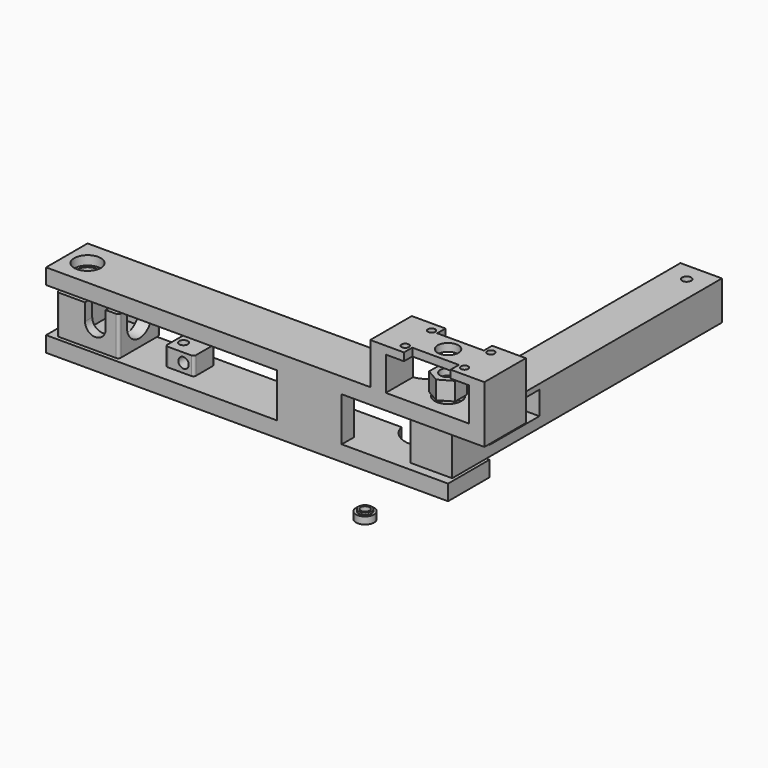
from build123d import *

# Parameters (mm, degrees)
CYLINDER003_R               = 1.7
CYLINDER003_DEPTH           = 23
BOX004_W                    = 8
BOX004_H                    = 10
BOX004_DEPTH                = 10
CYLINDER005_R               = 4
CYLINDER005_DEPTH           = 17
CYLINDER005_ROLL_ANGLE      = 90
BOX003_W                    = 10
BOX003_H                    = 12
BOX003_DEPTH                = 10
CYLINDER002_R               = 6
CYLINDER002_DEPTH           = 10
CYLINDER002_PITCH_ANGLE     = 90
BOX002_W                    = 11
BOX002_H                    = 13
BOX002_DEPTH                = 17
BOX001_W                    = 24
BOX001_H                    = 20
BOX001_DEPTH                = 15
FILLET004_R                 = 1
FILLET005_R                 = 1
FILLET006_R                 = 1
FILLET007_R                 = 1
CYLINDER021_R               = 1.75
CYLINDER021_DEPTH           = 20
CYLINDER023_R               = 2.5
CYLINDER023_DEPTH           = 3.5
CYLINDER022_R               = 3.5
CYLINDER022_DEPTH           = 2.75
BOX009_W                    = 10
BOX009_H                    = 10
BOX009_DEPTH                = 10
BOX009_PLACEMENT_ANGLE      = 60
BOX010_W                    = 10
BOX010_H                    = 10
BOX010_DEPTH                = 10
BOX010_PLACEMENT_ANGLE      = 120
BOX011_W                    = 10
BOX011_H                    = 10
BOX011_DEPTH                = 10
BOX012_W                    = 10
BOX012_H                    = 10
BOX012_DEPTH                = 10
BOX012_PLACEMENT_ANGLE      = 240
BOX013_W                    = 10
BOX013_H                    = 10
BOX013_DEPTH                = 10
BOX013_PLACEMENT_ANGLE      = -60
BOX008_W                    = 10
BOX008_H                    = 10
BOX008_DEPTH                = 10
CYLINDER013_R               = 4
CYLINDER013_DEPTH           = 3
CYLINDER012_R               = 1.4
CYLINDER012_DEPTH           = 19
CYLINDER011_R               = 3
CYLINDER011_DEPTH           = 3
BOX021_W                    = 10
BOX021_H                    = 10
BOX021_DEPTH                = 10
BOX021_PLACEMENT_ANGLE      = 60
BOX022_W                    = 10
BOX022_H                    = 10
BOX022_DEPTH                = 10
BOX022_PLACEMENT_ANGLE      = 120
BOX023_W                    = 10
BOX023_H                    = 10
BOX023_DEPTH                = 10
BOX024_W                    = 10
BOX024_H                    = 10
BOX024_DEPTH                = 10
BOX024_PLACEMENT_ANGLE      = -60
BOX025_W                    = 10
BOX025_H                    = 10
BOX025_DEPTH                = 10
BOX025_PLACEMENT_ANGLE      = 120
BOX020_W                    = 10
BOX020_H                    = 10
BOX020_DEPTH                = 10
CYLINDER010_R               = 6
CYLINDER010_DEPTH           = 7
CYLINDER028_R               = 9
CYLINDER028_DEPTH           = 47
CYLINDER028_PLACEMENT_ANGLE = 55
CYLINDER020_R               = 4
CYLINDER020_DEPTH           = 31
CYLINDER019_R               = 4
CYLINDER019_DEPTH           = 31
CYLINDER007_R               = 5.15
CYLINDER007_DEPTH           = 4
CYLINDER009_R               = 5.15
CYLINDER009_DEPTH           = 4
CYLINDER008_R               = 5.15
CYLINDER008_DEPTH           = 4
CYLINDER006_R               = 5.15
CYLINDER006_DEPTH           = 4
BOX019_W                    = 25
BOX019_H                    = 6
BOX019_DEPTH                = 17
BOX005_W                    = 155
BOX005_H                    = 20
BOX005_DEPTH                = 6
CYLINDER018_R               = 4
CYLINDER018_DEPTH           = 8
CYLINDER014_R               = 1.4
CYLINDER014_DEPTH           = 27
CYLINDER015_R               = 1.4
CYLINDER015_DEPTH           = 28
CYLINDER016_R               = 1.4
CYLINDER016_DEPTH           = 27
CYLINDER017_R               = 1.4
CYLINDER017_DEPTH           = 29
BOX016_W                    = 18
BOX016_H                    = 5
BOX016_DEPTH                = 5
BOX017_W                    = 18
BOX017_H                    = 5
BOX017_DEPTH                = 5
BOX015_W                    = 6
BOX015_H                    = 20
BOX015_DEPTH                = 13
BOX006_W                    = 169
BOX006_H                    = 20
BOX006_DEPTH                = 6
BOX018_W                    = 6
BOX018_H                    = 20
BOX018_DEPTH                = 13
BOX014_W                    = 44
BOX014_H                    = 20
BOX014_DEPTH                = 3
CYLINDER029_R               = 1.75
CYLINDER029_DEPTH           = 31
CYLINDER025_R               = 5.15
CYLINDER025_DEPTH           = 4
CYLINDER026_R               = 4
CYLINDER026_DEPTH           = 31
CYLINDER027_R               = 1.75
CYLINDER027_DEPTH           = 31
BOX026_W                    = 27
BOX026_H                    = 24
BOX026_DEPTH                = 9
CYLINDER024_R               = 5.15
CYLINDER024_DEPTH           = 4
BOX007_W                    = 16
BOX007_H                    = 130
BOX007_DEPTH                = 15
CYLINDER001_R               = 2
CYLINDER001_DEPTH           = 13
CYLINDER001_ROLL_ANGLE      = 90
CYLINDER_R                  = 1.7
CYLINDER_DEPTH              = 10
BOX_W                       = 11
BOX_H                       = 10
BOX_DEPTH                   = 7
FILLET_R                    = 1
FILLET008_R                 = 1
FILLET009_R                 = 1
FILLET010_R                 = 1


with BuildPart() as cylinder003:
    # Cylinder003 → Cylinder003 (new body)
    with BuildSketch(Plane(origin=(-1, 10, -1), x_dir=(1, 0, 0), z_dir=(0, 0, 1))):
        Circle(CYLINDER003_R)
    extrude(amount=CYLINDER003_DEPTH)


with BuildPart() as cube004:
    # Box004 → Box004 (new body)
    with BuildSketch(Plane(origin=(6, -3, 8.5), x_dir=(1, 0, 0), z_dir=(0, 0, 1))):
        with Locations((4, 5)):
            Rectangle(BOX004_W, BOX004_H)
    extrude(amount=BOX004_DEPTH)


with BuildPart() as cylinder005:
    # Cylinder005 → Cylinder005 (new body)
    with BuildSketch(Plane.XY):
        Circle(CYLINDER005_R)
    extrude(amount=CYLINDER005_DEPTH)


with BuildPart() as cylinder005_1:
    # Cylinder005 roll: moved
    add(cylinder005.part.rotate(Axis((0, 0, 0), (1, 0, 0)), CYLINDER005_ROLL_ANGLE))


with BuildPart() as cylinder005_2:
    # Cylinder005 placement: moved
    add(cylinder005_1.part.moved(Location((10, 8, 8.5))))


with BuildPart() as cube003:
    # Box003 → Box003 (new body)
    with BuildSketch(Plane(origin=(12, 4, 9), x_dir=(1, 0, 0), z_dir=(0, 0, 1))):
        with Locations((5, 6)):
            Rectangle(BOX003_W, BOX003_H)
    extrude(amount=BOX003_DEPTH)


with BuildPart() as cylinder002:
    # Cylinder002 → Cylinder002 (new body)
    with BuildSketch(Plane.XY):
        Circle(CYLINDER002_R)
    extrude(amount=CYLINDER002_DEPTH)


with BuildPart() as cylinder002_1:
    # Cylinder002 pitch: moved
    add(cylinder002.part.rotate(Axis((0, 0, 0), (0, 1, 0)), CYLINDER002_PITCH_ANGLE))


with BuildPart() as cylinder002_2:
    # Cylinder002 placement: moved
    add(cylinder002_1.part.moved(Location((12, 10, 9))))


with BuildPart() as cube002:
    # Box002 → Box002 (new body)
    with BuildSketch(Plane(origin=(3, 3.5, 3), x_dir=(1, 0, 0), z_dir=(0, 0, 1))):
        with Locations((5.5, 6.5)):
            Rectangle(BOX002_W, BOX002_H)
    extrude(amount=BOX002_DEPTH)


with BuildPart() as cylinder_holder:
    # Box001 → Box001 (new body)
    with BuildSketch(Plane(origin=(-5, 0, 0), x_dir=(1, 0, 0), z_dir=(0, 0, 1))):
        with Locations((12, 10)):
            Rectangle(BOX001_W, BOX001_H)
    extrude(amount=BOX001_DEPTH)

    # Cut002: cut Cube002
    add(cube002.part, mode=Mode.SUBTRACT)

    # Cut003: cut Cylinder002
    add(cylinder002_2.part, mode=Mode.SUBTRACT)

    # Cut024: cut Cube003
    add(cube003.part, mode=Mode.SUBTRACT)

    # Cut025: cut Cylinder005
    add(cylinder005_2.part, mode=Mode.SUBTRACT)

    # Cut026: cut Cube004
    add(cube004.part, mode=Mode.SUBTRACT)

    # Cut027: cut Cylinder003
    add(cylinder003.part, mode=Mode.SUBTRACT)


with BuildPart() as cylinder_holder_1:
    # Cut027 placement: moved
    add(cylinder_holder.part.moved(Location((1, -10, 0))))

    # Fillet004
    fillet004_edges = [cylinder_holder_1.edges().sort_by_distance(p)[0] for p in [
        (-4, -10, 7.5),
    ]]
    fillet(fillet004_edges, radius=FILLET004_R)

    # Fillet005
    fillet005_edges = [cylinder_holder_1.edges().sort_by_distance(p)[0] for p in [
        (-4, 10, 7.5),
    ]]
    fillet(fillet005_edges, radius=FILLET005_R)

    # Fillet006
    fillet006_edges = [cylinder_holder_1.edges().sort_by_distance(p)[0] for p in [
        (20, 10, 7.5),
    ]]
    fillet(fillet006_edges, radius=FILLET006_R)

    # Fillet007
    fillet007_edges = [cylinder_holder_1.edges().sort_by_distance(p)[0] for p in [
        (20, -10, 7.5),
    ]]
    fillet(fillet007_edges, radius=FILLET007_R)


with BuildPart() as cylinder_holder_2:
    # Fillet007 placement: moved
    add(cylinder_holder_1.part.moved(Location((-37, 0, 0))))


with BuildPart() as cylinder021:
    # Cylinder021 → Cylinder021 (new body)
    with BuildSketch(Plane(origin=(102, 0, -7.5), x_dir=(1, 0, 0), z_dir=(0, 0, 1))):
        Circle(CYLINDER021_R)
    extrude(amount=CYLINDER021_DEPTH)


with BuildPart() as cylinder023:
    # Cylinder023 → Cylinder023 (new body)
    with BuildSketch(Plane(origin=(102, 0, -3.5), x_dir=(1, 0, 0), z_dir=(0, 0, 1))):
        Circle(CYLINDER023_R)
    extrude(amount=CYLINDER023_DEPTH)


with BuildPart() as spacer:
    # Cylinder022 → Cylinder022 (new body)
    with BuildSketch(Plane(origin=(102, 0, -3.5), x_dir=(1, 0, 0), z_dir=(0, 0, 1))):
        Circle(CYLINDER022_R)
    extrude(amount=CYLINDER022_DEPTH)

    # Fusion005: union Cylinder023
    add(cylinder023.part)

    # Cut035: cut Cylinder021
    add(cylinder021.part, mode=Mode.SUBTRACT)


with BuildPart() as spacer_1:
    # Cut035 placement: moved
    add(spacer.part.moved(Location((0, -40, 0))))


with BuildPart() as cube009:
    # Box009 → Box009 (new body)
    with BuildSketch(Plane.XY):
        with Locations((5, 5)):
            Rectangle(BOX009_W, BOX009_H)
    extrude(amount=BOX009_DEPTH)


with BuildPart() as cube009_1:
    # Box009 placement: moved
    add(cube009.part.moved(Location((99.995127, -13.472542, 17))).rotate(Axis((99.995127, -13.472542, 17), (0, 0, 1)), BOX009_PLACEMENT_ANGLE))


with BuildPart() as cube010:
    # Box010 → Box010 (new body)
    with BuildSketch(Plane.XY):
        with Locations((5, 5)):
            Rectangle(BOX010_W, BOX010_H)
    extrude(amount=BOX010_DEPTH)


with BuildPart() as cube010_1:
    # Box010 placement: moved
    add(cube010.part.moved(Location((112.665127, -8.472542, 17))).rotate(Axis((112.665127, -8.472542, 17), (0, 0, 1)), BOX010_PLACEMENT_ANGLE))


with BuildPart() as cube011:
    # Box011 → Box011 (new body)
    with BuildSketch(Plane(origin=(114.67, 5, 17), x_dir=(-1, 0, 0), z_dir=(0, 0, 1))):
        with Locations((5, 5)):
            Rectangle(BOX011_W, BOX011_H)
    extrude(amount=BOX011_DEPTH)


with BuildPart() as cube012:
    # Box012 → Box012 (new body)
    with BuildSketch(Plane.XY):
        with Locations((5, 5)):
            Rectangle(BOX012_W, BOX012_H)
    extrude(amount=BOX012_DEPTH)


with BuildPart() as cube012_1:
    # Box012 placement: moved
    add(cube012.part.moved(Location((104.004873, 13.472542, 17))).rotate(Axis((104.004873, 13.472542, 17), (0, 0, 1)), BOX012_PLACEMENT_ANGLE))


with BuildPart() as cube013:
    # Box013 → Box013 (new body)
    with BuildSketch(Plane.XY):
        with Locations((5, 5)):
            Rectangle(BOX013_W, BOX013_H)
    extrude(amount=BOX013_DEPTH)


with BuildPart() as cube013_1:
    # Box013 placement: moved
    add(cube013.part.moved(Location((91.334873, 8.472542, 17))).rotate(Axis((91.334873, 8.472542, 17), (0, 0, 1)), BOX013_PLACEMENT_ANGLE))


with BuildPart() as cube008:
    # Box008 → Box008 (new body)
    with BuildSketch(Plane(origin=(89.33, -5, 17), x_dir=(1, 0, 0), z_dir=(0, 0, 1))):
        with Locations((5, 5)):
            Rectangle(BOX008_W, BOX008_H)
    extrude(amount=BOX008_DEPTH)


with BuildPart() as cut015:
    # Cylinder013 → Cylinder013 (new body)
    with BuildSketch(Plane(origin=(102, 0, 22.5), x_dir=(1, 0, 0), z_dir=(0, 0, 1))):
        Circle(CYLINDER013_R)
    extrude(amount=CYLINDER013_DEPTH)

    # Cut010: cut Cube008
    add(cube008.part, mode=Mode.SUBTRACT)

    # Cut011: cut Cube013
    add(cube013_1.part, mode=Mode.SUBTRACT)

    # Cut012: cut Cube012
    add(cube012_1.part, mode=Mode.SUBTRACT)

    # Cut013: cut Cube011
    add(cube011.part, mode=Mode.SUBTRACT)

    # Cut014: cut Cube010
    add(cube010_1.part, mode=Mode.SUBTRACT)

    # Cut015: cut Cube009
    add(cube009_1.part, mode=Mode.SUBTRACT)


with BuildPart() as cylinder012:
    # Cylinder012 → Cylinder012 (new body)
    with BuildSketch(Plane(origin=(102, 0, 18.5), x_dir=(1, 0, 0), z_dir=(0, 0, 1))):
        Circle(CYLINDER012_R)
    extrude(amount=CYLINDER012_DEPTH)


with BuildPart() as cylinder011:
    # Cylinder011 → Cylinder011 (new body)
    with BuildSketch(Plane(origin=(102, 0, 27.5), x_dir=(1, 0, 0), z_dir=(0, 0, 1))):
        Circle(CYLINDER011_R)
    extrude(amount=CYLINDER011_DEPTH)


with BuildPart() as cube021:
    # Box021 → Box021 (new body)
    with BuildSketch(Plane.XY):
        with Locations((5, 5)):
            Rectangle(BOX021_W, BOX021_H)
    extrude(amount=BOX021_DEPTH)


with BuildPart() as cube021_1:
    # Box021 placement: moved
    add(cube021.part.moved(Location((108.830127, 1.830127, 22))).rotate(Axis((108.830127, 1.830127, 22), (0, 0, 1)), BOX021_PLACEMENT_ANGLE))


with BuildPart() as cube022:
    # Box022 → Box022 (new body)
    with BuildSketch(Plane.XY):
        with Locations((5, 5)):
            Rectangle(BOX022_W, BOX022_H)
    extrude(amount=BOX022_DEPTH)


with BuildPart() as cube022_1:
    # Box022 placement: moved
    add(cube022.part.moved(Location((103.830127, 6.830127, 22))).rotate(Axis((103.830127, 6.830127, 22), (0, 0, 1)), BOX022_PLACEMENT_ANGLE))


with BuildPart() as cube023:
    # Box023 → Box023 (new body)
    with BuildSketch(Plane(origin=(97, 5, 22), x_dir=(-1, 0, 0), z_dir=(0, 0, 1))):
        with Locations((5, 5)):
            Rectangle(BOX023_W, BOX023_H)
    extrude(amount=BOX023_DEPTH)


with BuildPart() as cube024:
    # Box024 → Box024 (new body)
    with BuildSketch(Plane.XY):
        with Locations((5, 5)):
            Rectangle(BOX024_W, BOX024_H)
    extrude(amount=BOX024_DEPTH)


with BuildPart() as cube024_1:
    # Box024 placement: moved
    add(cube024.part.moved(Location((100.169873, -6.830127, 22))).rotate(Axis((100.169873, -6.830127, 22), (0, 0, 1)), BOX024_PLACEMENT_ANGLE))


with BuildPart() as cube025:
    # Box025 → Box025 (new body)
    with BuildSketch(Plane.XY):
        with Locations((5, 5)):
            Rectangle(BOX025_W, BOX025_H)
    extrude(amount=BOX025_DEPTH)


with BuildPart() as cube025_1:
    # Box025 placement: moved
    add(cube025.part.moved(Location((95.169873, -1.830127, 22))).rotate(Axis((95.169873, -1.830127, 22), (0, 0, -1)), BOX025_PLACEMENT_ANGLE))


with BuildPart() as cube020:
    # Box020 → Box020 (new body)
    with BuildSketch(Plane(origin=(107, -5, 22), x_dir=(1, 0, 0), z_dir=(0, 0, 1))):
        with Locations((5, 5)):
            Rectangle(BOX020_W, BOX020_H)
    extrude(amount=BOX020_DEPTH)


with BuildPart() as magnet_holder:
    # Cylinder010 → Cylinder010 (new body)
    with BuildSketch(Plane(origin=(102, 0, 23), x_dir=(1, 0, 0), z_dir=(0, 0, 1))):
        Circle(CYLINDER010_R)
    extrude(amount=CYLINDER010_DEPTH)

    # Cut036: cut Cube020
    add(cube020.part, mode=Mode.SUBTRACT)

    # Cut037: cut Cube025
    add(cube025_1.part, mode=Mode.SUBTRACT)

    # Cut038: cut Cube024
    add(cube024_1.part, mode=Mode.SUBTRACT)

    # Cut039: cut Cube023
    add(cube023.part, mode=Mode.SUBTRACT)

    # Cut040: cut Cube022
    add(cube022_1.part, mode=Mode.SUBTRACT)

    # Cut041: cut Cube021
    add(cube021_1.part, mode=Mode.SUBTRACT)

    # Cut042: cut Cylinder011
    add(cylinder011.part, mode=Mode.SUBTRACT)

    # Cut043: cut Cylinder012
    add(cylinder012.part, mode=Mode.SUBTRACT)

    # Cut044: cut Cut015
    add(cut015.part, mode=Mode.SUBTRACT)


with BuildPart() as cylinder028:
    # Cylinder028 → Cylinder028 (new body)
    with BuildSketch(Plane.XY):
        Circle(CYLINDER028_R)
    extrude(amount=CYLINDER028_DEPTH)


with BuildPart() as cylinder028_1:
    # Cylinder028 placement: moved
    add(cylinder028.part.moved(Location((84.797807, 12.045105, -17.5))).rotate(Axis((84.797807, 12.045105, -17.5), (0, 0, 1)), CYLINDER028_PLACEMENT_ANGLE))


with BuildPart() as cylinder020:
    # Cylinder020 → Cylinder020 (new body)
    with BuildSketch(Plane(origin=(102, 0, -7.5), x_dir=(1, 0, 0), z_dir=(0, 0, 1))):
        Circle(CYLINDER020_R)
    extrude(amount=CYLINDER020_DEPTH)


with BuildPart() as cylinder019:
    # Cylinder019 → Cylinder019 (new body)
    with BuildSketch(Plane(origin=(-37, 0, -7.5), x_dir=(1, 0, 0), z_dir=(0, 0, 1))):
        Circle(CYLINDER019_R)
    extrude(amount=CYLINDER019_DEPTH)


with BuildPart() as cylinder007:
    # Cylinder007 → Cylinder007 (new body)
    with BuildSketch(Plane(origin=(-37, 0, -7.5), x_dir=(1, 0, 0), z_dir=(0, 0, 1))):
        Circle(CYLINDER007_R)
    extrude(amount=CYLINDER007_DEPTH)


with BuildPart() as cylinder009:
    # Cylinder009 → Cylinder009 (new body)
    with BuildSketch(Plane(origin=(102, 0, 18.5), x_dir=(1, 0, 0), z_dir=(0, 0, 1))):
        Circle(CYLINDER009_R)
    extrude(amount=CYLINDER009_DEPTH)


with BuildPart() as cylinder008:
    # Cylinder008 → Cylinder008 (new body)
    with BuildSketch(Plane(origin=(102, 0, -7.5), x_dir=(1, 0, 0), z_dir=(0, 0, 1))):
        Circle(CYLINDER008_R)
    extrude(amount=CYLINDER008_DEPTH)


with BuildPart() as cylinder006:
    # Cylinder006 → Cylinder006 (new body)
    with BuildSketch(Plane(origin=(-37, 0, 18.5), x_dir=(1, 0, 0), z_dir=(0, 0, 1))):
        Circle(CYLINDER006_R)
    extrude(amount=CYLINDER006_DEPTH)


with BuildPart() as cube019:
    # Box019 → Box019 (new body)
    with BuildSketch(Plane(origin=(44, -10, -1), x_dir=(1, 0, 0), z_dir=(0, 0, 1))):
        with Locations((12.5, 3)):
            Rectangle(BOX019_W, BOX019_H)
    extrude(amount=BOX019_DEPTH)


with BuildPart() as fusion:
    # Box005 → Box005 (new body)
    with BuildSketch(Plane(origin=(-45, -10, -7), x_dir=(1, 0, 0), z_dir=(0, 0, 1))):
        with Locations((77.5, 10)):
            Rectangle(BOX005_W, BOX005_H)
    extrude(amount=BOX005_DEPTH)

    # Fusion: union Cube019
    add(cube019.part)


with BuildPart() as cylinder018:
    # Cylinder018 → Cylinder018 (new body)
    with BuildSketch(Plane(origin=(102, 0, 32), x_dir=(1, 0, 0), z_dir=(0, 0, 1))):
        Circle(CYLINDER018_R)
    extrude(amount=CYLINDER018_DEPTH)


with BuildPart() as cylinder014:
    # Cylinder014 → Cylinder014 (new body)
    with BuildSketch(Plane(origin=(113.43, 6.35, 27.5), x_dir=(1, 0, 0), z_dir=(0, 0, 1))):
        Circle(CYLINDER014_R)
    extrude(amount=CYLINDER014_DEPTH)


with BuildPart() as cylinder015:
    # Cylinder015 → Cylinder015 (new body)
    with BuildSketch(Plane(origin=(113.43, -6.35, 25.5), x_dir=(1, 0, 0), z_dir=(0, 0, 1))):
        Circle(CYLINDER015_R)
    extrude(amount=CYLINDER015_DEPTH)


with BuildPart() as cylinder016:
    # Cylinder016 → Cylinder016 (new body)
    with BuildSketch(Plane(origin=(90.57, 6.35, 25.5), x_dir=(1, 0, 0), z_dir=(0, 0, 1))):
        Circle(CYLINDER016_R)
    extrude(amount=CYLINDER016_DEPTH)


with BuildPart() as cylinder017:
    # Cylinder017 → Cylinder017 (new body)
    with BuildSketch(Plane(origin=(90.57, -6.35, 25.5), x_dir=(1, 0, 0), z_dir=(0, 0, 1))):
        Circle(CYLINDER017_R)
    extrude(amount=CYLINDER017_DEPTH)


with BuildPart() as cube016:
    # Box016 → Box016 (new body)
    with BuildSketch(Plane(origin=(93, -11, 34), x_dir=(1, 0, 0), z_dir=(0, 0, 1))):
        with Locations((9, 2.5)):
            Rectangle(BOX016_W, BOX016_H)
    extrude(amount=BOX016_DEPTH)


with BuildPart() as cube017:
    # Box017 → Box017 (new body)
    with BuildSketch(Plane(origin=(93, 6, 34), x_dir=(1, 0, 0), z_dir=(0, 0, 1))):
        with Locations((9, 2.5)):
            Rectangle(BOX017_W, BOX017_H)
    extrude(amount=BOX017_DEPTH)


with BuildPart() as cube015:
    # Box015 → Box015 (new body)
    with BuildSketch(Plane(origin=(80, -10, 22), x_dir=(1, 0, 0), z_dir=(0, 0, 1))):
        with Locations((3, 10)):
            Rectangle(BOX015_W, BOX015_H)
    extrude(amount=BOX015_DEPTH)


with BuildPart() as fusion001:
    # Box006 → Box006 (new body)
    with BuildSketch(Plane(origin=(-45, -10, 16), x_dir=(1, 0, 0), z_dir=(0, 0, 1))):
        with Locations((84.5, 10)):
            Rectangle(BOX006_W, BOX006_H)
    extrude(amount=BOX006_DEPTH)

    # Fusion001: union Cube015
    add(cube015.part)


with BuildPart() as fusion002:
    # Box018 → Box018 (new body)
    with BuildSketch(Plane(origin=(118, -10, 22), x_dir=(1, 0, 0), z_dir=(0, 0, 1))):
        with Locations((3, 10)):
            Rectangle(BOX018_W, BOX018_H)
    extrude(amount=BOX018_DEPTH)

    # Fusion002: union Fusion001
    add(fusion001.part)


with BuildPart() as main_arm:
    # Box014 → Box014 (new body)
    with BuildSketch(Plane(origin=(80, -10, 35), x_dir=(1, 0, 0), z_dir=(0, 0, 1))):
        with Locations((22, 10)):
            Rectangle(BOX014_W, BOX014_H)
    extrude(amount=BOX014_DEPTH)

    # Fusion003: union Fusion002
    add(fusion002.part)

    # Cut017: cut Cube017
    add(cube017.part, mode=Mode.SUBTRACT)

    # Cut018: cut Cube016
    add(cube016.part, mode=Mode.SUBTRACT)

    # Cut019: cut Cylinder017
    add(cylinder017.part, mode=Mode.SUBTRACT)

    # Cut020: cut Cylinder016
    add(cylinder016.part, mode=Mode.SUBTRACT)

    # Cut021: cut Cylinder015
    add(cylinder015.part, mode=Mode.SUBTRACT)

    # Cut022: cut Cylinder014
    add(cylinder014.part, mode=Mode.SUBTRACT)

    # Cut023: cut Cylinder018
    add(cylinder018.part, mode=Mode.SUBTRACT)

    # Fusion004: union Fusion
    add(fusion.part)

    # Cut029: cut Cylinder006
    add(cylinder006.part, mode=Mode.SUBTRACT)

    # Cut030: cut Cylinder008
    add(cylinder008.part, mode=Mode.SUBTRACT)

    # Cut031: cut Cylinder009
    add(cylinder009.part, mode=Mode.SUBTRACT)

    # Cut032: cut Cylinder007
    add(cylinder007.part, mode=Mode.SUBTRACT)

    # Cut033: cut Cylinder019
    add(cylinder019.part, mode=Mode.SUBTRACT)

    # Cut034: cut Cylinder020
    add(cylinder020.part, mode=Mode.SUBTRACT)

    # Cut045: cut Cylinder028
    add(cylinder028_1.part, mode=Mode.SUBTRACT)


with BuildPart() as cylinder029:
    # Cylinder029 → Cylinder029 (new body)
    with BuildSketch(Plane(origin=(102, 115, -7.5), x_dir=(1, 0, 0), z_dir=(0, 0, 1))):
        Circle(CYLINDER029_R)
    extrude(amount=CYLINDER029_DEPTH)


with BuildPart() as cylinder025:
    # Cylinder025 → Cylinder025 (new body)
    with BuildSketch(Plane(origin=(102, 21, 14.5), x_dir=(1, 0, 0), z_dir=(0, 0, 1))):
        Circle(CYLINDER025_R)
    extrude(amount=CYLINDER025_DEPTH)


with BuildPart() as cylinder026:
    # Cylinder026 → Cylinder026 (new body)
    with BuildSketch(Plane(origin=(102, 21, -7.5), x_dir=(1, 0, 0), z_dir=(0, 0, 1))):
        Circle(CYLINDER026_R)
    extrude(amount=CYLINDER026_DEPTH)


with BuildPart() as cylinder027:
    # Cylinder027 → Cylinder027 (new body)
    with BuildSketch(Plane(origin=(102, 0, -7.5), x_dir=(1, 0, 0), z_dir=(0, 0, 1))):
        Circle(CYLINDER027_R)
    extrude(amount=CYLINDER027_DEPTH)


with BuildPart() as cube026:
    # Box026 → Box026 (new body)
    with BuildSketch(Plane(origin=(91, 10, 4), x_dir=(1, 0, 0), z_dir=(0, 0, 1))):
        with Locations((13.5, 12)):
            Rectangle(BOX026_W, BOX026_H)
    extrude(amount=BOX026_DEPTH)


with BuildPart() as cylinder024:
    # Cylinder024 → Cylinder024 (new body)
    with BuildSketch(Plane(origin=(102, 21, -1.5), x_dir=(1, 0, 0), z_dir=(0, 0, 1))):
        Circle(CYLINDER024_R)
    extrude(amount=CYLINDER024_DEPTH)


with BuildPart() as moved_arm:
    # Box007 → Box007 (new body)
    with BuildSketch(Plane(origin=(94, -8, 0), x_dir=(1, 0, 0), z_dir=(0, 0, 1))):
        with Locations((8, 65)):
            Rectangle(BOX007_W, BOX007_H)
    extrude(amount=BOX007_DEPTH)

    # Cut046: cut Cylinder024
    add(cylinder024.part, mode=Mode.SUBTRACT)

    # Cut047: cut Cube026
    add(cube026.part, mode=Mode.SUBTRACT)

    # Cut048: cut Cylinder027
    add(cylinder027.part, mode=Mode.SUBTRACT)

    # Cut049: cut Cylinder026
    add(cylinder026.part, mode=Mode.SUBTRACT)

    # Cut050: cut Cylinder025
    add(cylinder025.part, mode=Mode.SUBTRACT)

    # Cut051: cut Cylinder029
    add(cylinder029.part, mode=Mode.SUBTRACT)


with BuildPart() as cylinder001:
    # Cylinder001 → Cylinder001 (new body)
    with BuildSketch(Plane.XY):
        Circle(CYLINDER001_R)
    extrude(amount=CYLINDER001_DEPTH)


with BuildPart() as cylinder001_1:
    # Cylinder001 roll: moved
    add(cylinder001.part.rotate(Axis((0, 0, 0), (1, 0, 0)), CYLINDER001_ROLL_ANGLE))


with BuildPart() as cylinder001_2:
    # Cylinder001 placement: moved
    add(cylinder001_1.part.moved(Location((4, 6, 3.5))))


with BuildPart() as cylinder:
    # Cylinder → Cylinder (new body)
    with BuildSketch(Plane.XY.offset(-1)):
        Circle(CYLINDER_R)
    extrude(amount=CYLINDER_DEPTH)


with BuildPart() as piston_pivot:
    # Box → Box (new body)
    with BuildSketch(Plane(origin=(-3, -5, 0), x_dir=(1, 0, 0), z_dir=(0, 0, 1))):
        with Locations((5.5, 5)):
            Rectangle(BOX_W, BOX_H)
    extrude(amount=BOX_DEPTH)

    # Cut: cut Cylinder
    add(cylinder.part, mode=Mode.SUBTRACT)

    # Cut001: cut Cylinder001
    add(cylinder001_2.part, mode=Mode.SUBTRACT)

    # Fillet
    fillet_edges = [piston_pivot.edges().sort_by_distance(p)[0] for p in [
        (8, 5, 3.5),
    ]]
    fillet(fillet_edges, radius=FILLET_R)

    # Fillet008
    fillet008_edges = [piston_pivot.edges().sort_by_distance(p)[0] for p in [
        (8, -5, 3.5),
    ]]
    fillet(fillet008_edges, radius=FILLET008_R)

    # Fillet009
    fillet009_edges = [piston_pivot.edges().sort_by_distance(p)[0] for p in [
        (-3, 5, 3.5),
    ]]
    fillet(fillet009_edges, radius=FILLET009_R)

    # Fillet010
    fillet010_edges = [piston_pivot.edges().sort_by_distance(p)[0] for p in [
        (-3, -5, 3.5),
    ]]
    fillet(fillet010_edges, radius=FILLET010_R)


solid = Compound([cylinder_holder_2.part, spacer_1.part, magnet_holder.part, main_arm.part, moved_arm.part, piston_pivot.part])
